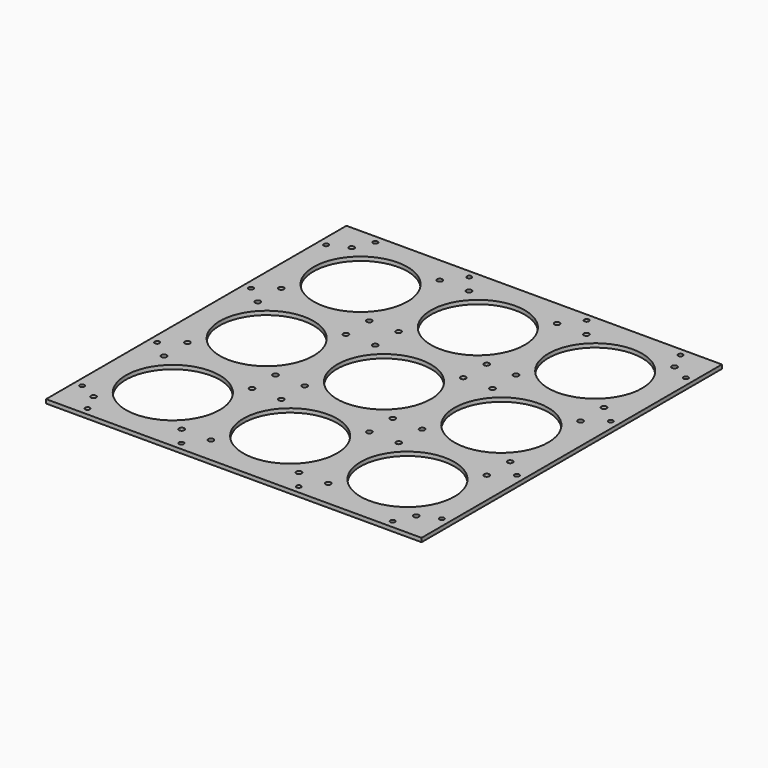
from build123d import *

# Parameters (mm, degrees)
F0_W     = 304.8
F0_H     = 304.8
F0_R     = 2.1463
F0_R_2   = 38.1
F1_DEPTH = 3.175
F2_D     = 3.81


with BuildPart() as f1:
    # F0 (on Top) → F1 (new body)
    with BuildSketch(Plane.XY):
        Rectangle(F0_W, F0_H)
        with Locations((-131.0005, -131.0005)):
            Circle(F0_R, mode=Mode.SUBTRACT)
        with Locations((-95.25, -95.25)):
            Circle(F0_R_2, mode=Mode.SUBTRACT)
        with Locations((-59.4995, -131.0005)):
            Circle(F0_R, mode=Mode.SUBTRACT)
        with Locations((-35.7505, -131.0005)):
            Circle(F0_R, mode=Mode.SUBTRACT)
        with Locations((-131.0005, -59.4995)):
            Circle(F0_R, mode=Mode.SUBTRACT)
        with Locations((-131.0005, -35.7505)):
            Circle(F0_R, mode=Mode.SUBTRACT)
        with Locations((-59.4995, -59.4995)):
            Circle(F0_R, mode=Mode.SUBTRACT)
        with Locations((-35.7505, -59.4995)):
            Circle(F0_R, mode=Mode.SUBTRACT)
        with Locations((-59.4995, -35.7505)):
            Circle(F0_R, mode=Mode.SUBTRACT)
        with Locations((-35.7505, -35.7505)):
            Circle(F0_R, mode=Mode.SUBTRACT)
        with Locations((35.7505, -131.0005)):
            Circle(F0_R, mode=Mode.SUBTRACT)
        with Locations((59.4995, -131.0005)):
            Circle(F0_R, mode=Mode.SUBTRACT)
        with Locations((0, -95.25)):
            Circle(F0_R_2, mode=Mode.SUBTRACT)
        with Locations((131.0005, -131.0005)):
            Circle(F0_R, mode=Mode.SUBTRACT)
        with Locations((95.25, -95.25)):
            Circle(F0_R_2, mode=Mode.SUBTRACT)
        with Locations((35.7505, -59.4995)):
            Circle(F0_R, mode=Mode.SUBTRACT)
        with Locations((59.4995, -59.4995)):
            Circle(F0_R, mode=Mode.SUBTRACT)
        with Locations((35.7505, -35.7505)):
            Circle(F0_R, mode=Mode.SUBTRACT)
        with Locations((59.4995, -35.7505)):
            Circle(F0_R, mode=Mode.SUBTRACT)
        with Locations((131.0005, -59.4995)):
            Circle(F0_R, mode=Mode.SUBTRACT)
        with Locations((131.0005, -35.7505)):
            Circle(F0_R, mode=Mode.SUBTRACT)
        with Locations((-131.0005, 35.7505)):
            Circle(F0_R, mode=Mode.SUBTRACT)
        with Locations((-95.25, 0)):
            Circle(F0_R_2, mode=Mode.SUBTRACT)
        with Locations((-131.0005, 59.4995)):
            Circle(F0_R, mode=Mode.SUBTRACT)
        with Locations((-59.4995, 35.7505)):
            Circle(F0_R, mode=Mode.SUBTRACT)
        with Locations((-35.7505, 35.7505)):
            Circle(F0_R, mode=Mode.SUBTRACT)
        with Locations((-59.4995, 59.4995)):
            Circle(F0_R, mode=Mode.SUBTRACT)
        with Locations((-35.7505, 59.4995)):
            Circle(F0_R, mode=Mode.SUBTRACT)
        with Locations((-95.25, 95.25)):
            Circle(F0_R_2, mode=Mode.SUBTRACT)
        with Locations((-131.0005, 131.0005)):
            Circle(F0_R, mode=Mode.SUBTRACT)
        with Locations((-59.4995, 131.0005)):
            Circle(F0_R, mode=Mode.SUBTRACT)
        with Locations((-35.7505, 131.0005)):
            Circle(F0_R, mode=Mode.SUBTRACT)
        Circle(F0_R_2, mode=Mode.SUBTRACT)
        with Locations((35.7505, 35.7505)):
            Circle(F0_R, mode=Mode.SUBTRACT)
        with Locations((59.4995, 35.7505)):
            Circle(F0_R, mode=Mode.SUBTRACT)
        with Locations((35.7505, 59.4995)):
            Circle(F0_R, mode=Mode.SUBTRACT)
        with Locations((59.4995, 59.4995)):
            Circle(F0_R, mode=Mode.SUBTRACT)
        with Locations((95.25, 0)):
            Circle(F0_R_2, mode=Mode.SUBTRACT)
        with Locations((131.0005, 35.7505)):
            Circle(F0_R, mode=Mode.SUBTRACT)
        with Locations((131.0005, 59.4995)):
            Circle(F0_R, mode=Mode.SUBTRACT)
        with Locations((0, 95.25)):
            Circle(F0_R_2, mode=Mode.SUBTRACT)
        with Locations((35.7505, 131.0005)):
            Circle(F0_R, mode=Mode.SUBTRACT)
        with Locations((59.4995, 131.0005)):
            Circle(F0_R, mode=Mode.SUBTRACT)
        with Locations((95.25, 95.25)):
            Circle(F0_R_2, mode=Mode.SUBTRACT)
        with Locations((131.0005, 131.0005)):
            Circle(F0_R, mode=Mode.SUBTRACT)
    extrude(amount=F1_DEPTH)

    # F2 (through all)
    with Locations(Plane(origin=(0, 0, 0), x_dir=(1, 0, 0), z_dir=(0, 0, -1))):
        with Locations((-146.05, 123.825), (-123.825, 146.05), (123.825, 146.05), (146.05, -123.825), (123.825, -146.05), (-146.05, -123.825), (-123.825, -146.05), (-146.05, 47.625), (-146.05, -47.625), (-47.625, -146.05), (47.625, -146.05), (146.05, -47.625), (146.05, 47.625), (47.625, 146.05), (-47.625, 146.05), (146.05, 123.825)):
            Hole(F2_D / 2)


solid = f1.part
